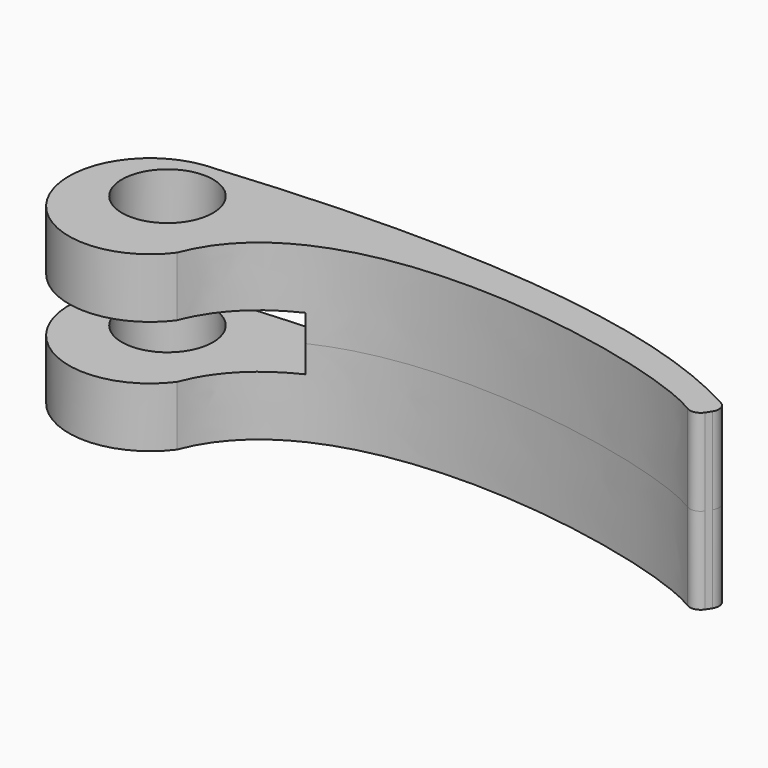
from build123d import *

# Parameters (mm, degrees)
SKETCH_R          = 4.2
PAD_DEPTH         = 8
FILLET_R          = 1
SKETCH001_W       = 28.61805
SKETCH001_H       = 5
POCKET_DEPTH      = 6.359373
POCKET_DEPTH_BACK = -9.501


with BuildPart() as part:
    # Sketch → Pad (new body, symmetric)
    with BuildSketch(Plane.XY):
        with BuildLine():
            ThreePointArc((0, 5.5), (-6.69683, -5.376754), (6.030279, -6.459343))
            add(Edge.make_bspline(
                [(6.030279, -6.459343), (11.977673, 9.279221), (47.159592, 0.679194), (50.755966, -3.073543)],
                knots=[0, 0, 0, 0, 1, 1, 1, 1], degree=3))
            Line((50.755966, -3.073543), (52.204102, -0.7977))
            add(Edge.make_bspline(
                [(0, 5.5), (35.91824, 8.824372), (52.204102, -0.7977)],
                knots=[0, 0, 0, 1, 1, 1], degree=2, weights=[8, 8, 7.92]))
        make_face()
        Circle(SKETCH_R, mode=Mode.SUBTRACT)
    extrude(amount=PAD_DEPTH, both=True)

    # Fillet
    fillet_edges = [part.edges().sort_by_distance(p)[0] for p in [
        (50.755966, -3.073543, 0),
        (52.204102, -0.7977, 0),
    ]]
    fillet(fillet_edges, radius=FILLET_R)

    # Sketch001 → Pocket (cut, two sides)
    with BuildSketch(Plane.XZ) as pocket_sk:
        with Locations((-1.773529, 0)):
            Rectangle(SKETCH001_W, SKETCH001_H)
    extrude(amount=-POCKET_DEPTH, mode=Mode.SUBTRACT)
    extrude(pocket_sk.sketch, amount=-POCKET_DEPTH_BACK, mode=Mode.SUBTRACT)


solid = part.part
